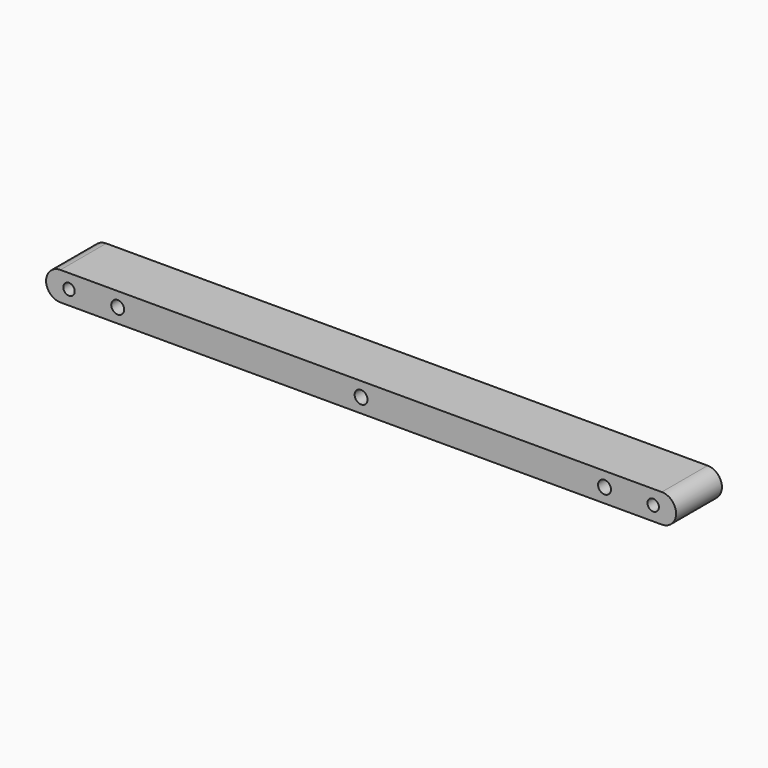
from build123d import *

# Parameters (mm, degrees)
F1_DEPTH = 20
F2_R     = 2.25
F2_R_2   = 2
F3_DEPTH = 20.001


with BuildPart() as f1:
    # F0 (on Front) → F1 (new body)
    with BuildSketch(Plane.XZ):
        with BuildLine():
            Line((-210, -5), (0, -5))
            ThreePointArc((0, -5), (5, 0), (0, 5))
            Line((0, 5), (-210, 5))
            ThreePointArc((-210, 5), (-215, 0), (-210, -5))
        make_face()
    extrude(amount=F1_DEPTH)

    # F2 (on face) → F3 (cut, through all)
    with BuildSketch(Plane.XZ.offset(20)):
        with Locations((-190, 0)):
            Circle(F2_R)
        with Locations((-20, 0)):
            Circle(F2_R)
        with Locations((-105, 0)):
            Circle(F2_R)
        with Locations((-207, 0)):
            Circle(F2_R_2)
        with Locations((-3, 0)):
            Circle(F2_R_2)
    extrude(amount=-F3_DEPTH, mode=Mode.SUBTRACT)


solid = f1.part
